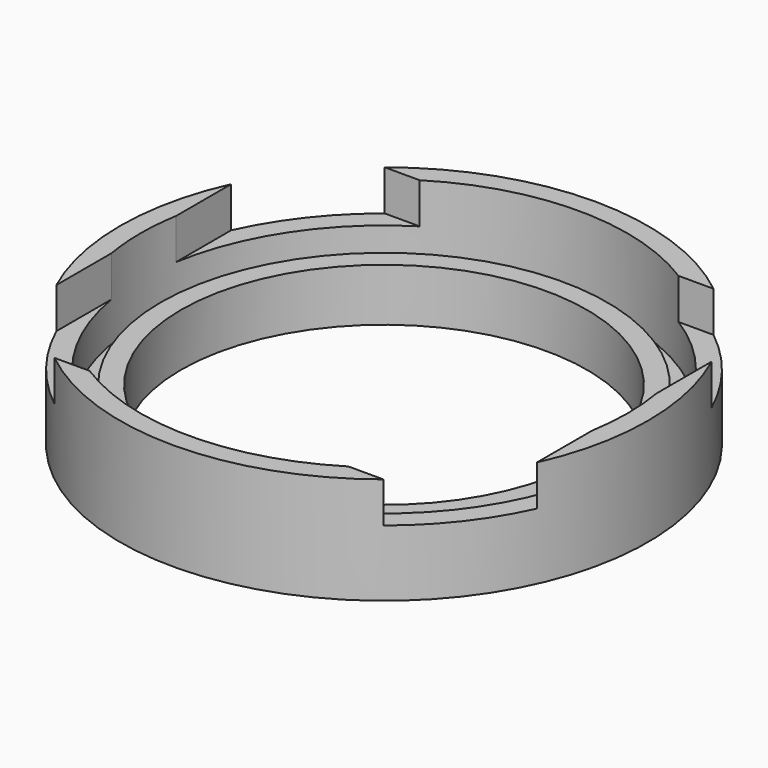
from build123d import *

# Parameters (mm, degrees)
F2_R     = 1
F3_DEPTH = 25
F4_W     = 35.5
F4_H     = 30.5
F5_DEPTH = 3


with BuildPart() as f1:
    # F0 (on Front) → F1 (revolve)
    with BuildSketch(Plane.XZ):
        Polygon((-15, -4), (-16.5, -4), (-16.5, -5.9), (-18, -5.9), (-18, 0), (-19.5, 0), (-19.5, -7.9), (-15, -7.9), align=None)
    revolve(axis=Axis((0, 0, -4.832979), (0, 0, -1)))

    # F2 (on face) → F3 (cut)
    with BuildSketch(Plane.XY.offset(-5.9)):
        with Locations((-1.971014, 16.885352)):
            Circle(F2_R)
        with Locations((1.971014, 16.885352)):
            Circle(F2_R)
    extrude(amount=-F3_DEPTH, mode=Mode.SUBTRACT)

    # F4 (on face) → F5 (cut)
    with BuildSketch(Plane.XY):
        Rectangle(F4_W, F4_H)
    extrude(amount=-F5_DEPTH, mode=Mode.SUBTRACT)


solid = f1.part
